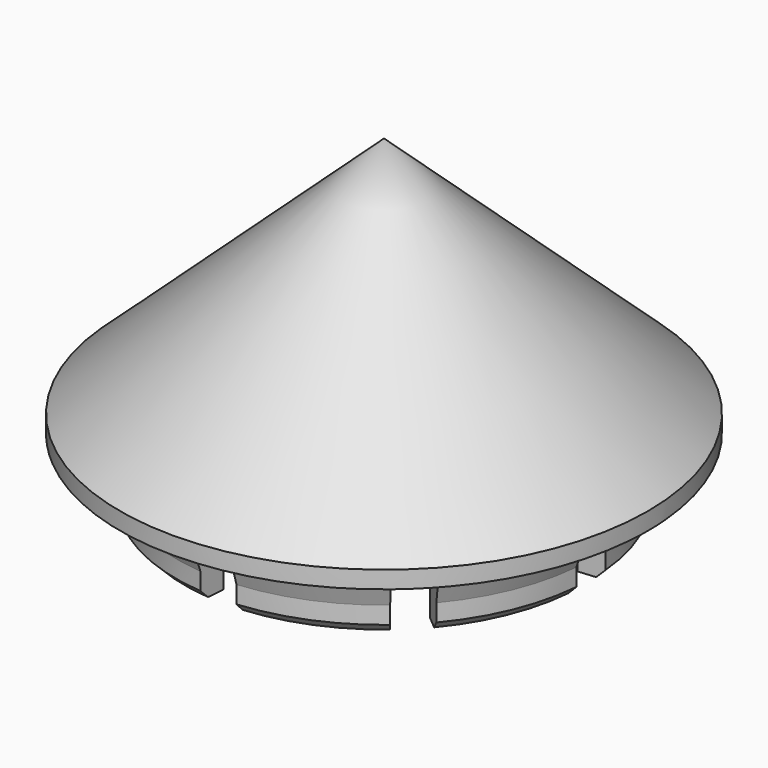
from build123d import *

# Parameters (mm, degrees)
F5_DEPTH  = 8
F6_SIZE   = 1
F10_DEPTH = 25


with BuildPart() as f3:
    # F2 (on Front) → F3 (revolve)
    with BuildSketch(Plane.XZ):
        Polygon((-30.5, 2), (-30.5, 0), (0, 0), (0, 30), align=None)
    revolve(axis=Axis((0, 0, 4.0188357234), (0, 0, -1)))

    # F4 (on face) → F5 (join)
    with BuildSketch(Plane(origin=(0, 0, 0), x_dir=(1, 0, 0), z_dir=(0, 0, -1))):
        with BuildLine():
            Line((1.8302705977, 20.9200886599), (2.0917378259, 23.9086727542))
            ThreePointArc((2.0917378259, 23.9086727542), (0, 24), (-2.0917378259, 23.9086727542))
            Line((-2.0917378259, 23.9086727542), (-1.8302705977, 20.9200886599))
            ThreePointArc((-1.8302705977, 20.9200886599), (0, 21), (1.8302705977, 20.9200886599))
        make_face()
        with BuildLine():
            Line((13.4985398034, 16.0869333055), (15.4269026325, 18.3850666349))
            ThreePointArc((15.4269026325, 18.3850666349), (9.1844023768, 22.1731087803), (2.0917378259, 23.9086727542))
            Line((2.0917378259, 23.9086727542), (1.8302705977, 20.9200886599))
            ThreePointArc((1.8302705977, 20.9200886599), (8.0363520797, 19.4014701827), (13.4985398034, 16.0869333055))
        make_face()
        with BuildLine():
            Line((16.0869333055, 13.4985398034), (18.3850666349, 15.4269026325))
            ThreePointArc((18.3850666349, 15.4269026325), (16.9705627485, 16.9705627485), (15.4269026325, 18.3850666349))
            Line((15.4269026325, 18.3850666349), (13.4985398034, 16.0869333055))
            ThreePointArc((13.4985398034, 16.0869333055), (14.8492424049, 14.8492424049), (16.0869333055, 13.4985398034))
        make_face()
        with BuildLine():
            Line((20.9200886599, 1.8302705977), (23.9086727542, 2.0917378259))
            ThreePointArc((23.9086727542, 2.0917378259), (22.1731087803, 9.1844023768), (18.3850666349, 15.4269026325))
            Line((18.3850666349, 15.4269026325), (16.0869333055, 13.4985398034))
            ThreePointArc((16.0869333055, 13.4985398034), (19.4014701827, 8.0363520797), (20.9200886599, 1.8302705977))
        make_face()
        with BuildLine():
            ThreePointArc((23.9086727542, -2.0917378259), (23.977157318, -1.0468652968), (24, 0))
            ThreePointArc((24, 0), (23.977157318, 1.0468652968), (23.9086727542, 2.0917378259))
            Line((23.9086727542, 2.0917378259), (20.9200886599, 1.8302705977))
            ThreePointArc((20.9200886599, 1.8302705977), (20.9800126532, 0.9160071347), (21, 0))
            ThreePointArc((21, 0), (20.9800126532, -0.9160071347), (20.9200886599, -1.8302705977))
            Line((20.9200886599, -1.8302705977), (23.9086727542, -2.0917378259))
        make_face()
        with BuildLine():
            ThreePointArc((18.3850666349, -15.4269026325), (22.1731087803, -9.1844023768), (23.9086727542, -2.0917378259))
            Line((23.9086727542, -2.0917378259), (20.9200886599, -1.8302705977))
            ThreePointArc((20.9200886599, -1.8302705977), (19.4014701827, -8.0363520797), (16.0869333055, -13.4985398034))
            Line((16.0869333055, -13.4985398034), (18.3850666349, -15.4269026325))
        make_face()
        with BuildLine():
            ThreePointArc((15.4269026325, -18.3850666349), (16.9705627485, -16.9705627485), (18.3850666349, -15.4269026325))
            Line((18.3850666349, -15.4269026325), (16.0869333055, -13.4985398034))
            ThreePointArc((16.0869333055, -13.4985398034), (14.8492424049, -14.8492424049), (13.4985398034, -16.0869333055))
            Line((13.4985398034, -16.0869333055), (15.4269026325, -18.3850666349))
        make_face()
        with BuildLine():
            ThreePointArc((2.0917378259, -23.9086727542), (9.1844023768, -22.1731087803), (15.4269026325, -18.3850666349))
            Line((15.4269026325, -18.3850666349), (13.4985398034, -16.0869333055))
            ThreePointArc((13.4985398034, -16.0869333055), (8.0363520797, -19.4014701827), (1.8302705977, -20.9200886599))
            Line((1.8302705977, -20.9200886599), (2.0917378259, -23.9086727542))
        make_face()
        with BuildLine():
            ThreePointArc((-2.0917378259, -23.9086727542), (0, -24), (2.0917378259, -23.9086727542))
            Line((2.0917378259, -23.9086727542), (1.8302705977, -20.9200886599))
            ThreePointArc((1.8302705977, -20.9200886599), (0, -21), (-1.8302705977, -20.9200886599))
            Line((-1.8302705977, -20.9200886599), (-2.0917378259, -23.9086727542))
        make_face()
        with BuildLine():
            ThreePointArc((-15.4269026325, -18.3850666349), (-9.1844023768, -22.1731087803), (-2.0917378259, -23.9086727542))
            Line((-2.0917378259, -23.9086727542), (-1.8302705977, -20.9200886599))
            ThreePointArc((-1.8302705977, -20.9200886599), (-8.0363520797, -19.4014701827), (-13.4985398034, -16.0869333055))
            Line((-13.4985398034, -16.0869333055), (-15.4269026325, -18.3850666349))
        make_face()
        with BuildLine():
            ThreePointArc((-18.3850666349, -15.4269026325), (-16.9705627485, -16.9705627485), (-15.4269026325, -18.3850666349))
            Line((-15.4269026325, -18.3850666349), (-13.4985398034, -16.0869333055))
            ThreePointArc((-13.4985398034, -16.0869333055), (-14.8492424049, -14.8492424049), (-16.0869333055, -13.4985398034))
            Line((-16.0869333055, -13.4985398034), (-18.3850666349, -15.4269026325))
        make_face()
        with BuildLine():
            ThreePointArc((-23.9086727542, -2.0917378259), (-22.1731087803, -9.1844023768), (-18.3850666349, -15.4269026325))
            Line((-18.3850666349, -15.4269026325), (-16.0869333055, -13.4985398034))
            ThreePointArc((-16.0869333055, -13.4985398034), (-19.4014701827, -8.0363520797), (-20.9200886599, -1.8302705977))
            Line((-20.9200886599, -1.8302705977), (-23.9086727542, -2.0917378259))
        make_face()
        with BuildLine():
            Line((-20.9200886599, 1.8302705977), (-23.9086727542, 2.0917378259))
            ThreePointArc((-23.9086727542, 2.0917378259), (-24, 0), (-23.9086727542, -2.0917378259))
            Line((-23.9086727542, -2.0917378259), (-20.9200886599, -1.8302705977))
            ThreePointArc((-20.9200886599, -1.8302705977), (-21, 0), (-20.9200886599, 1.8302705977))
        make_face()
        with BuildLine():
            Line((-16.0869333055, 13.4985398034), (-18.3850666349, 15.4269026325))
            ThreePointArc((-18.3850666349, 15.4269026325), (-22.1731087803, 9.1844023768), (-23.9086727542, 2.0917378259))
            Line((-23.9086727542, 2.0917378259), (-20.9200886599, 1.8302705977))
            ThreePointArc((-20.9200886599, 1.8302705977), (-19.4014701827, 8.0363520797), (-16.0869333055, 13.4985398034))
        make_face()
        with BuildLine():
            Line((-13.4985398034, 16.0869333055), (-15.4269026325, 18.3850666349))
            ThreePointArc((-15.4269026325, 18.3850666349), (-16.9705627485, 16.9705627485), (-18.3850666349, 15.4269026325))
            Line((-18.3850666349, 15.4269026325), (-16.0869333055, 13.4985398034))
            ThreePointArc((-16.0869333055, 13.4985398034), (-14.8492424049, 14.8492424049), (-13.4985398034, 16.0869333055))
        make_face()
        with BuildLine():
            Line((-1.8302705977, 20.9200886599), (-2.0917378259, 23.9086727542))
            ThreePointArc((-2.0917378259, 23.9086727542), (-9.1844023768, 22.1731087803), (-15.4269026325, 18.3850666349))
            Line((-15.4269026325, 18.3850666349), (-13.4985398034, 16.0869333055))
            ThreePointArc((-13.4985398034, 16.0869333055), (-8.0363520797, 19.4014701827), (-1.8302705977, 20.9200886599))
        make_face()
    extrude(amount=F5_DEPTH)

    # F6
    f6_edges = [f3.edges().sort_by_distance(p)[0] for p in [
        (2.091738, 23.908673, -8),
    ]]
    chamfer(f6_edges, length=F6_SIZE)

    # F7 (on Right) → F8 (revolve)
    with BuildSketch(Plane.YZ):
        Polygon((25, -2), (24, -2), (24, -5), align=None)
    revolve(axis=Axis((0, 0, 4.0188357234), (0, 0, -1)))

    # F9 (on Top) + F4 (on face) → F10 (cut)
    with BuildSketch(Plane.XY):
        with BuildLine():
            Line((-23.3643555151, 19.6050220954), (0, 0))
            Line((0, 0), (-19.6050220954, 23.3643555151))
            ThreePointArc((-19.6050220954, 23.3643555151), (-21.5667568262, 21.5667568262), (-23.3643555151, 19.6050220954))
        make_face()
        with BuildLine():
            Line((0, 0), (-30.3839382918, 2.6582501538))
            ThreePointArc((-30.3839382918, 2.6582501538), (-30.5, 0), (-30.3839382918, -2.6582501538))
            Line((-30.3839382918, -2.6582501538), (0, 0))
        make_face()
        with BuildLine():
            Line((-19.6050220954, -23.3643555151), (0, 0))
            Line((0, 0), (-23.3643555151, -19.6050220954))
            ThreePointArc((-23.3643555151, -19.6050220954), (-21.5667568262, -21.5667568262), (-19.6050220954, -23.3643555151))
        make_face()
        with BuildLine():
            Line((2.6582501538, -30.3839382918), (0, 0))
            Line((0, 0), (-2.6582501538, -30.3839382918))
            ThreePointArc((-2.6582501538, -30.3839382918), (0, -30.5), (2.6582501538, -30.3839382918))
        make_face()
        with BuildLine():
            Line((23.3643555151, -19.6050220954), (0, 0))
            Line((0, 0), (19.6050220954, -23.3643555151))
            ThreePointArc((19.6050220954, -23.3643555151), (21.5667568262, -21.5667568262), (23.3643555151, -19.6050220954))
        make_face()
        with BuildLine():
            Line((30.3839382918, 2.6582501538), (0, 0))
            Line((0, 0), (30.3839382918, -2.6582501538))
            ThreePointArc((30.3839382918, -2.6582501538), (30.4709707582, -1.3303913146), (30.5, 0))
            ThreePointArc((30.5, 0), (30.4709707582, 1.3303913146), (30.3839382918, 2.6582501538))
        make_face()
        with BuildLine():
            Line((-2.6582501538, 30.3839382918), (0, 0))
            Line((0, 0), (2.6582501538, 30.3839382918))
            ThreePointArc((2.6582501538, 30.3839382918), (0, 30.5), (-2.6582501538, 30.3839382918))
        make_face()
        with BuildLine():
            Line((19.6050220954, 23.3643555151), (0, 0))
            Line((0, 0), (23.3643555151, 19.6050220954))
            ThreePointArc((23.3643555151, 19.6050220954), (21.5667568262, 21.5667568262), (19.6050220954, 23.3643555151))
        make_face()
    with BuildSketch(Plane(origin=(0, 0, 0), x_dir=(1, 0, 0), z_dir=(0, 0, -1))):
        with BuildLine():
            ThreePointArc((-2.0917378259, 23.9086727542), (0, 24), (2.0917378259, 23.9086727542))
            Line((2.0917378259, 23.9086727542), (2.6582501538, 30.3839382918))
            ThreePointArc((2.6582501538, 30.3839382918), (0, 30.5), (-2.6582501538, 30.3839382918))
            Line((-2.6582501538, 30.3839382918), (-2.0917378259, 23.9086727542))
        make_face()
        with BuildLine():
            Line((23.3643555151, -19.6050220954), (18.3850666349, -15.4269026325))
            ThreePointArc((18.3850666349, -15.4269026325), (16.9705627485, -16.9705627485), (15.4269026325, -18.3850666349))
            Line((15.4269026325, -18.3850666349), (19.6050220954, -23.3643555151))
            ThreePointArc((19.6050220954, -23.3643555151), (21.5667568262, -21.5667568262), (23.3643555151, -19.6050220954))
        make_face()
    extrude(amount=-F10_DEPTH, dir=(0, 0, 1), mode=Mode.SUBTRACT)


solid = f3.part
